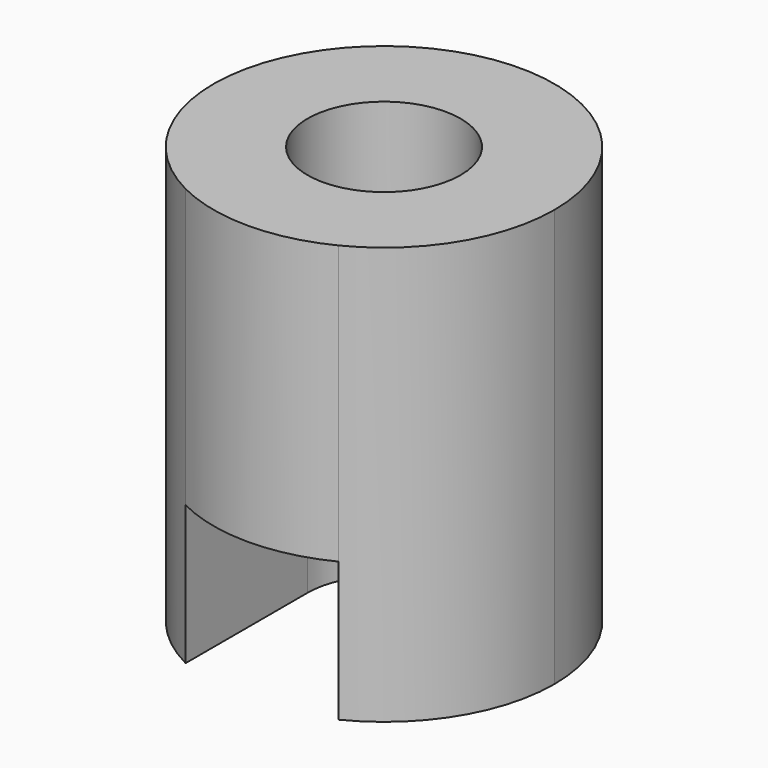
from build123d import *

# Parameters (mm, degrees)
F1_DEPTH = 304.8
F2_DEPTH = 101.6


with BuildPart() as f1:
    # F0 (on Top) → F1 (new body)
    with BuildSketch(Plane.XY):
        with BuildLine():
            ThreePointArc((55.88, -111.210239), (105.936576, -65.327891), (124.46, 0))
            ThreePointArc((124.46, 0), (-65.327891, 105.936576), (-55.88, -111.210239))
            Line((-55.88, -111.210239), (-55.88, 0))
            ThreePointArc((-55.88, 0), (0, 55.88), (55.88, 0))
            Line((55.88, 0), (55.88, -111.210239))
        make_face()
        with BuildLine():
            Line((-55.88, 0), (-55.88, -111.210239))
            ThreePointArc((-55.88, -111.210239), (0, -124.46), (55.88, -111.210239))
            Line((55.88, -111.210239), (55.88, 0))
            ThreePointArc((55.88, 0), (0, -55.88), (-55.88, 0))
        make_face()
    extrude(amount=F1_DEPTH)

    # F0 (on Top) → F2 (cut)
    with BuildSketch(Plane.XY):
        with BuildLine():
            Line((-55.88, 0), (-55.88, -111.210239))
            ThreePointArc((-55.88, -111.210239), (0, -124.46), (55.88, -111.210239))
            Line((55.88, -111.210239), (55.88, 0))
            ThreePointArc((55.88, 0), (0, -55.88), (-55.88, 0))
        make_face()
    extrude(amount=F2_DEPTH, mode=Mode.SUBTRACT)


solid = f1.part
